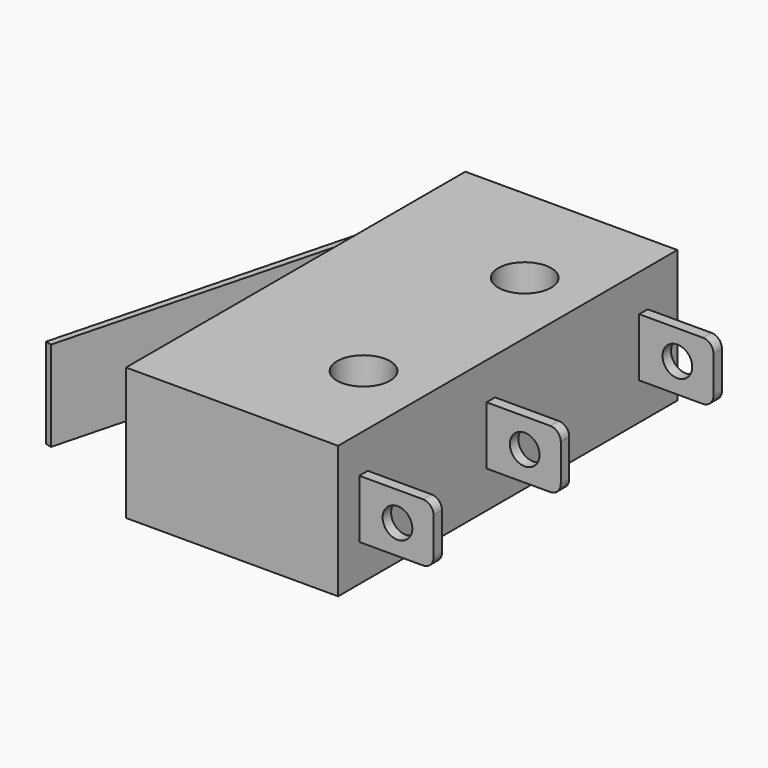
from build123d import *

# Parameters (mm, degrees)
F0_R          = 1.25
F1_DEPTH      = 6.25
F2_START      = 1.75
F0_W          = 3.5
F0_H          = 0.5
F2_DEPTH      = 2.75
F3_START      = 1
F3_DEPTH      = 4.25
F4_START      = 1.25
F0_W_2        = 1.25
F0_H_2        = 2
F4_DEPTH      = 3.75
F5_R          = 0.5
F6_R          = 0.7
F7_DEPTH      = 10.001
F7_DEPTH_BACK = 10.001
F8_R          = 0.5
F8_2_R        = 0.5
F8_3_R        = 0.5


with BuildPart() as f1:
    # F0 (on Top) → F1 (new body)
    with BuildSketch(Plane.XY):
        Polygon((5, 10), (-5, 10), (-5, 6.75), (-5, 6.45), (-5, 2.95), (-5, 0.95), (-5, -10), (5, -10), (5, -8.75), (5, -8.25), (5, -1.25), (5, -0.75), (5, 7.75), (5, 8.25), align=None)
        with Locations((2, -4.75)):
            Circle(F0_R, mode=Mode.SUBTRACT)
        with Locations((2, 4.75)):
            Circle(F0_R, mode=Mode.SUBTRACT)
    extrude(amount=F1_DEPTH)


with BuildPart() as f2:
    # F0 (on Top) → F2 (new body)
    with BuildSketch(Plane.XY.offset(F2_START)):
        with Locations((6.75, -8.5)):
            Rectangle(F0_W, F0_H)
    extrude(amount=F2_DEPTH)


with BuildPart() as f2b:
    # F0 (on Top) → F2, piece 2 (new body)
    with BuildSketch(Plane.XY.offset(F2_START)):
        with Locations((6.75, -1)):
            Rectangle(F0_W, F0_H)
    extrude(amount=F2_DEPTH)


with BuildPart() as f2c:
    # F0 (on Top) → F2, piece 3 (new body)
    with BuildSketch(Plane.XY.offset(F2_START)):
        with Locations((6.75, 8)):
            Rectangle(F0_W, F0_H)
    extrude(amount=F2_DEPTH)


with BuildPart() as f3:
    # F0 (on Top) → F3 (new body)
    with BuildSketch(Plane.XY.offset(F3_START)):
        Polygon((-5, 6.45), (-5, 6.75), (-5.7314702465, 6.75), (-9.7901872608, -8.7266539083), (-9.5, -8.8027548523), (-5.5, 6.45), align=None)
    extrude(amount=F3_DEPTH)


with BuildPart() as f4:
    # F0 (on Top) → F4 (new body)
    with BuildSketch(Plane.XY.offset(F4_START)):
        with Locations((-5.625, 1.95)):
            Rectangle(F0_W_2, F0_H_2)
    extrude(amount=F4_DEPTH)

    # F5
    f5_edges = [f4.edges().sort_by_distance(p)[0] for p in [
        (-6.25, 0.95, 3.125),
        (-6.25, 2.95, 3.125),
    ]]
    fillet(f5_edges, radius=F5_R)


with BuildPart() as f7_tool:
    # F6 (on Front) → F7 (new body, two sides)
    with BuildSketch(Plane.XZ) as f7_sk:
        with Locations((6.8, 3.125)):
            Circle(F6_R)
    extrude(amount=F7_DEPTH)
    extrude(f7_sk.sketch, amount=-F7_DEPTH_BACK)


with BuildPart() as f2_1:
    add(f2.part)

    # F7: cut by f7_tool
    add(f7_tool.part, mode=Mode.SUBTRACT)

    # F8
    f8_edges = [f2_1.edges().sort_by_distance(p)[0] for p in [
        (8.5, -8.5, 4.5),
        (8.5, -8.5, 1.75),
    ]]
    fillet(f8_edges, radius=F8_R)


with BuildPart() as f2b_1:
    add(f2b.part)

    # F7: cut by f7_tool
    add(f7_tool.part, mode=Mode.SUBTRACT)

    # F8#2
    f8_2_edges = [f2b_1.edges().sort_by_distance(p)[0] for p in [
        (8.5, -1, 1.75),
        (8.5, -1, 4.5),
    ]]
    fillet(f8_2_edges, radius=F8_2_R)


with BuildPart() as f2c_1:
    add(f2c.part)

    # F7: cut by f7_tool
    add(f7_tool.part, mode=Mode.SUBTRACT)

    # F8#3
    f8_3_edges = [f2c_1.edges().sort_by_distance(p)[0] for p in [
        (8.5, 8, 4.5),
        (8.5, 8, 1.75),
    ]]
    fillet(f8_3_edges, radius=F8_3_R)


solid = Compound([f1.part, f3.part, f4.part, f2_1.part, f2b_1.part, f2c_1.part])
